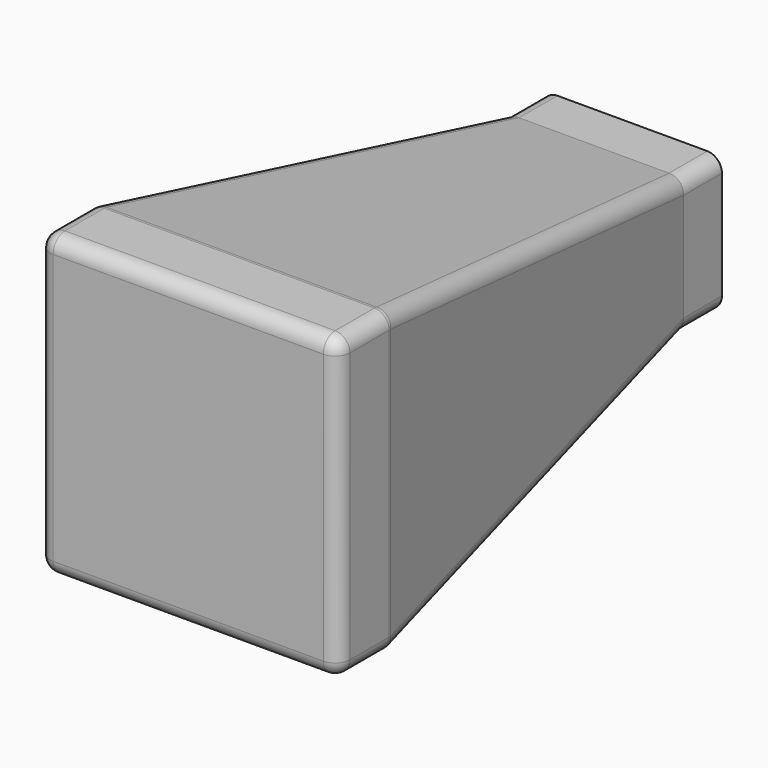
from build123d import *

# Parameters (mm, degrees)
SKETCH080_W             = 110
SKETCH080_H             = 110
PAD051_DEPTH            = 220
POCKET036_DEPTH         = 158
POCKET037_DEPTH         = 158
THICKNESS002_T          = 6
SKETCH079_W             = 5
SKETCH079_H             = 5
PAD052_DEPTH            = 110
BODY012_PLACEMENT_ANGLE = 90


with BuildPart() as part:
    # Sketch080 → Pad051 (new body)
    with BuildSketch(Plane.XY):
        Rectangle(SKETCH080_W, SKETCH080_H)
    extrude(amount=PAD051_DEPTH)

    # Sketch081 (on Face3 of Pad051) → Pocket036 (cut)
    with BuildSketch(Plane.XZ.offset(55)):
        Polygon((-55, 20), (-30.5, 200), (-30.5, 220), (-55, 220), align=None)
        Polygon((30.5, 220), (55, 220), (55, 20), (30.5, 200), align=None)
    extrude(amount=-POCKET036_DEPTH, mode=Mode.SUBTRACT)

    # Sketch082 (on DatumPlane) → Pocket037 (cut)
    with BuildSketch(Plane.YZ.offset(55)):
        Polygon((-55, 20), (-22, 200), (-22, 220), (-55, 220), align=None)
        Polygon((22, 220), (22, 200), (55, 20), (55, 220), align=None)
    extrude(amount=-POCKET037_DEPTH, mode=Mode.SUBTRACT)

    # Thickness002
    thickness002_openings = [part.faces().sort_by_distance(p)[0] for p in [
        (0, 0, 220),
    ]]
    offset(amount=THICKNESS002_T, openings=thickness002_openings)

    # Sketch079 → Pad052 (join)
    with BuildSketch(Plane(origin=(0, -55, 0), x_dir=(-1, 0, 0), z_dir=(0, 1, 0))):
        with Locations((-52.5, 6.5)):
            Rectangle(SKETCH079_W, SKETCH079_H)
        with Locations((52.5, 6.5)):
            Rectangle(SKETCH079_W, SKETCH079_H)
    extrude(amount=PAD052_DEPTH)


with BuildPart() as part_1:
    # Body012 placement: moved
    add(part.part.moved(Location((-0.100429, -201, -6.066442))).rotate(Axis((-0.100429, -201, -6.066442), (-1, 0, 0)), BODY012_PLACEMENT_ANGLE))


solid = part_1.part
